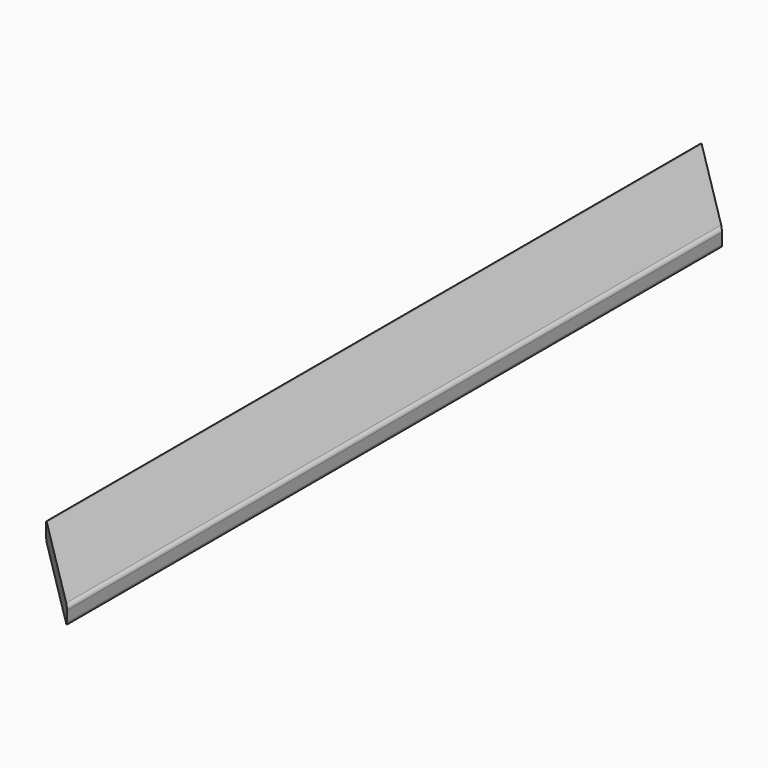
from build123d import *

# Parameters (mm, degrees)
F1_DEPTH = 601.472
F3_DEPTH = 23.877


with BuildPart() as f1:
    # F0 (on Front) → F1 (new body, symmetric)
    with BuildSketch(Plane.XZ):
        with BuildLine():
            Line((63.246, 11.938), (-63.246, 11.938))
            ThreePointArc((-63.246, 11.938), (-66.658497, 10.524497), (-68.072, 7.112))
            Line((-68.072, 7.112), (-68.072, -7.112))
            ThreePointArc((-68.072, -7.112), (-66.658497, -10.524497), (-63.246, -11.938))
            Line((-63.246, -11.938), (63.246, -11.938))
            ThreePointArc((63.246, -11.938), (66.658497, -10.524497), (68.072, -7.112))
            Line((68.072, -7.112), (68.072, 7.112))
            ThreePointArc((68.072, 7.112), (66.658497, 10.524497), (63.246, 11.938))
        make_face()
    extrude(amount=F1_DEPTH, both=True)

    # F2 (on face) → F3 (cut, through all)
    with BuildSketch(Plane.XY.offset(11.938)):
        Polygon((-68.072, -601.472), (68.072, -601.472), (-68.072, -465.328), align=None)
        Polygon((68.072, 601.472), (-68.072, 601.472), (68.072, 465.328), align=None)
    extrude(amount=-F3_DEPTH, mode=Mode.SUBTRACT)


solid = f1.part
